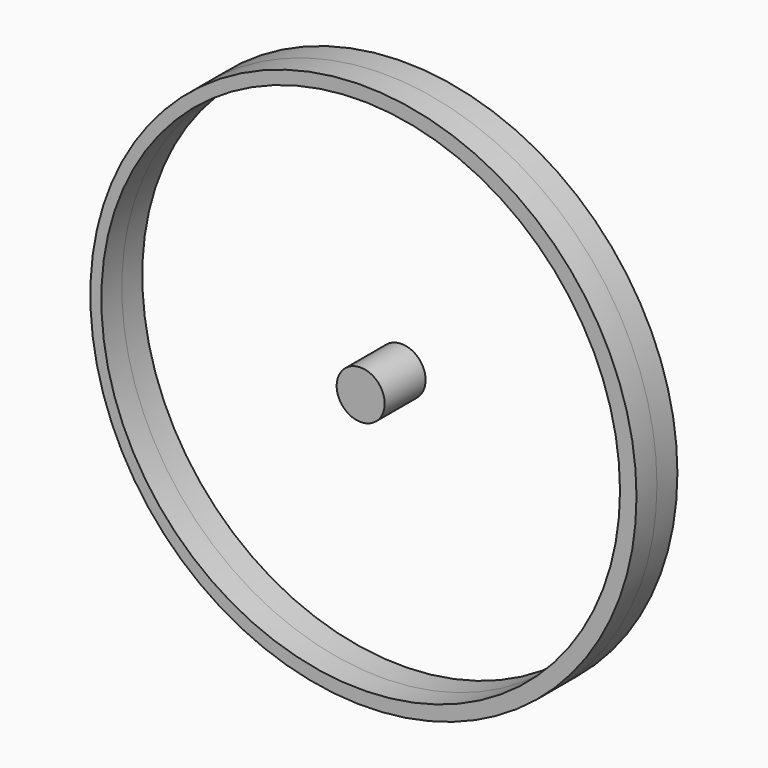
from build123d import *

# Parameters (mm, degrees)
F0_R     = 339.106303
F0_R_2   = 322.036054
F0_R_3   = 29.810691
F1_DEPTH = 31.75


with BuildPart() as f1:
    # F0 (on Front) → F1 (new body, symmetric)
    with BuildSketch(Plane.XZ):
        with Locations((3.400423, 0)):
            Circle(F0_R)
        Circle(F0_R_2, mode=Mode.SUBTRACT)
        Circle(F0_R_3)
    extrude(amount=F1_DEPTH, both=True)


solid = f1.part
